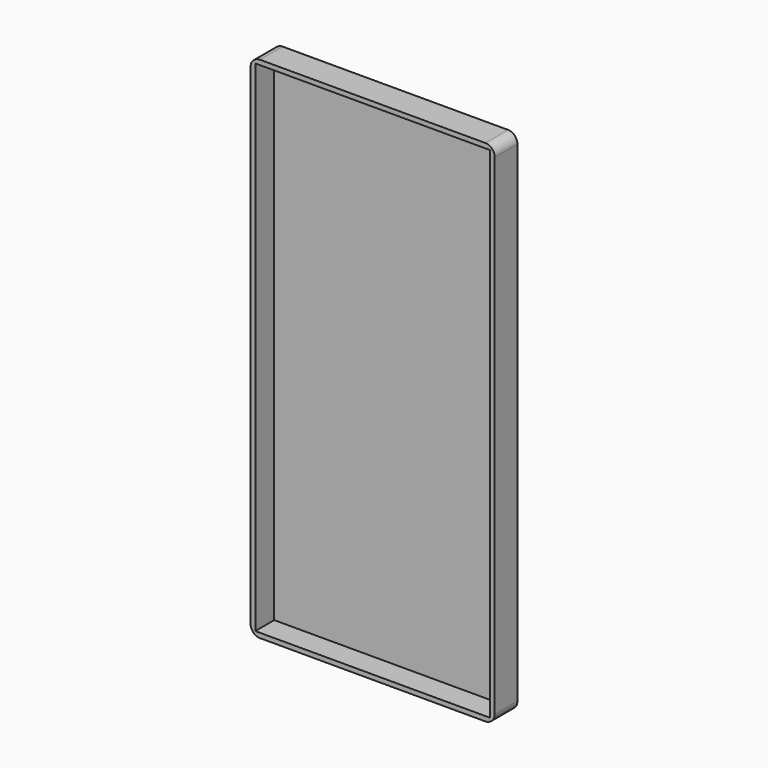
from build123d import *

# Parameters (mm, degrees)
F0_W     = 65.532
F0_H     = 136.652
F1_DEPTH = 7.62
F2_T     = -1.27
F3_R     = 2.54


with BuildPart() as f1:
    # F0 (on Front) → F1 (new body)
    with BuildSketch(Plane.XZ):
        Rectangle(F0_W, F0_H)
    extrude(amount=F1_DEPTH)

    # F2
    f2_openings = [f1.faces().sort_by_distance(p)[0] for p in [
        (0, -7.62, 0),
    ]]
    offset(amount=F2_T, openings=f2_openings)

    # F3
    f3_edges = [f1.edges().sort_by_distance(p)[0] for p in [
        (-32.766, -3.81, -68.326),
        (32.766, -3.81, -68.326),
        (32.766, -3.81, 68.326),
        (-32.766, -3.81, 68.326),
    ]]
    fillet(f3_edges, radius=F3_R)


solid = f1.part
